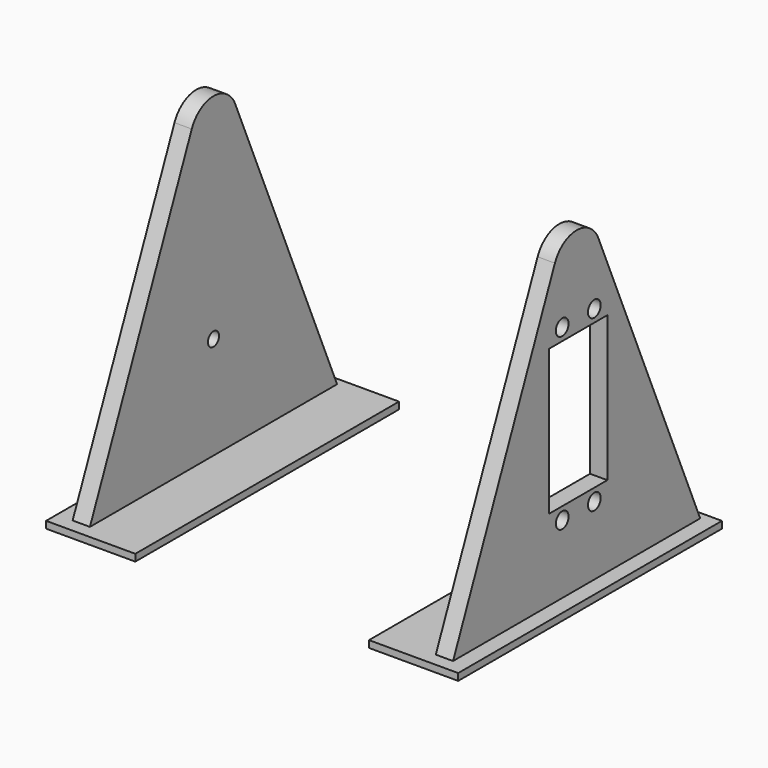
from build123d import *

# Parameters (mm, degrees)
F2_DEPTH  = 5
F5_W      = 25.799889
F5_H      = 95.316247
F6_DEPTH  = 2
F9_D      = 4
F9_DEPTH  = 15
F10_W     = 21
F10_H     = 42
F10_R     = 2.3
F11_DEPTH = 6


with BuildPart() as f2:
    # F1 (on offset) → F2 (new body)
    with BuildSketch(Plane.YZ.offset(50)):
        with BuildLine():
            Line((45.085, -44.93209), (7.852122, 42.374369))
            ThreePointArc((7.852122, 42.374369), (0, 47.562082), (-7.852122, 42.374369))
            Line((-7.852122, 42.374369), (-45.085, -44.93209))
            Line((-45.085, -44.93209), (0, -44.93209))
            Line((0, -44.93209), (45.085, -44.93209))
        make_face()
    extrude(amount=F2_DEPTH)

    # F7: F4_1 across plane


with BuildPart() as f4_1:
    # F4: instance of F2
    add(f2.part.mirror(Plane.YZ))

    # F5 (on offset) → F6 (join)
    with BuildSketch(Plane.XY.offset(-43.942)):
        with Locations((-46.683387, -0.874489)):
            Rectangle(F5_W, F5_H)
    extrude(amount=-F6_DEPTH)

    # F9
    with Locations(Plane(origin=(-55, 0, 0), x_dir=(0, -1, 0), z_dir=(-1, 0, 0))):
        with Locations((0, -14.276751)):
            Hole(F9_D / 2, depth=F9_DEPTH)


with BuildPart() as f2_1:
    add(f2.part)
    add(f4_1.part.mirror(Plane.YZ))

    # F10 (on face) → F11 (cut)
    with BuildSketch(Plane.YZ.offset(55)):
        with Locations((0.594001, 0.437133)):
            Rectangle(F10_W, F10_H)
        with Locations((-5.215549, 24.987351)):
            Circle(F10_R)
        with Locations((6.403552, 24.987351)):
            Circle(F10_R)
        with Locations((-5.215549, -24.113084)):
            Circle(F10_R)
        with Locations((6.403552, -24.113084)):
            Circle(F10_R)
    extrude(amount=-F11_DEPTH, mode=Mode.SUBTRACT)


solid = Compound([f4_1.part, f2_1.part])
